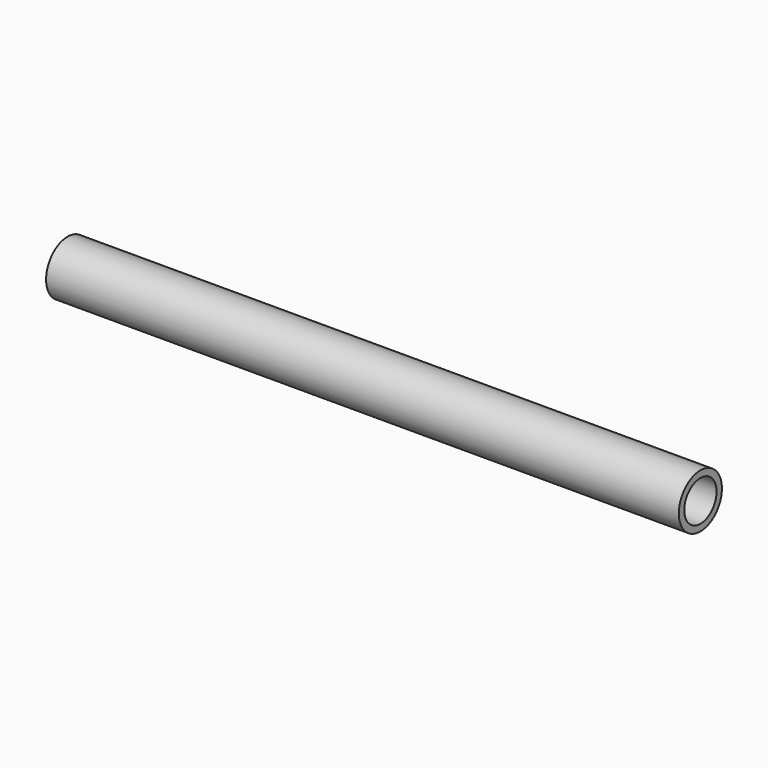
from build123d import *

# Parameters (mm, degrees)
F1_T = -1


with BuildPart() as f3:
    # F0 (on Front) → F3 (revolve)
    with BuildSketch(Plane.XZ):
        Polygon((0, 4), (0, 0), (94, 0), (93.9897066, 3.9999867557), align=None)
    revolve(axis=Axis((39.8402512074, 0, 0), (1, 0, 0)))

    # F1
    f1_openings = [f3.faces().sort_by_distance(p)[0] for p in [
        (93.994853, 0, -1.999993),
        (0, 0, 0),
    ]]
    offset(amount=F1_T, openings=f1_openings)


solid = f3.part
